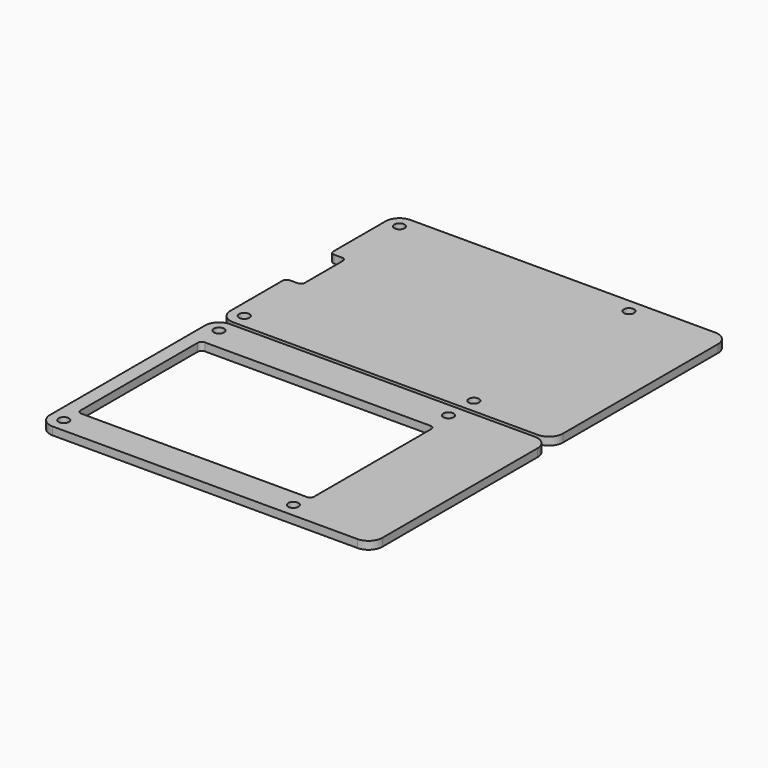
from build123d import *

# Parameters (mm, degrees)
SKETCH_R     = 1.3
PAD_DEPTH    = 2
SKETCH001_R  = 1.3
PAD001_DEPTH = 2


with BuildPart() as body:
    # Sketch → Pad (new body)
    with BuildSketch(Plane.XY):
        with BuildLine():
            Line((3.4953, 56), (80.5, 56))
            ThreePointArc((84, 52.5), (82.974874, 54.974874), (80.5, 56))
            Line((84, 52.5), (84, 3.5))
            ThreePointArc((80.5, 0), (82.974874, 1.025126), (84, 3.5))
            Line((80.5, 0), (3.5, 0))
            ThreePointArc((0, 3.5), (1.025126, 1.025126), (3.5, 0))
            Line((0, 3.5), (0, 20))
            ThreePointArc((1, 21), (0.292893, 20.707107), (0, 20))
            Line((3, 21), (1, 21))
            ThreePointArc((3, 21), (3.707107, 21.292893), (4, 22))
            Line((4, 34), (4, 22))
            ThreePointArc((4, 34), (3.707107, 34.707107), (3, 35))
            Line((1, 35), (3, 35))
            ThreePointArc((0, 36), (0.292893, 35.292893), (1, 35))
            Line((0, 36), (0, 52.318672))
            ThreePointArc((3.4953, 56), (0.957127, 54.909912), (0, 52.318672))
        make_face()
        with Locations((3.5, 52.5)):
            Circle(SKETCH_R, mode=Mode.SUBTRACT)
        with Locations((3.5, 3.5)):
            Circle(SKETCH_R, mode=Mode.SUBTRACT)
        with Locations((61.5, 3.5)):
            Circle(SKETCH_R, mode=Mode.SUBTRACT)
        with Locations((61.5, 52.5)):
            Circle(SKETCH_R, mode=Mode.SUBTRACT)
    extrude(amount=PAD_DEPTH)


with BuildPart() as body_1:
    # Body placement: moved
    add(body.part.moved(Location((0, 57, 0))))


with BuildPart() as body001:
    # Sketch001 → Pad001 (new body)
    with BuildSketch(Plane.XY):
        with BuildLine():
            Line((3.5, 56), (80.5, 56))
            ThreePointArc((84, 52.5), (82.974874, 54.974874), (80.5, 56))
            Line((84, 52.5), (84, 3.5))
            ThreePointArc((80.5, 0), (82.974874, 1.025126), (84, 3.5))
            Line((80.5, 0), (3.5, 0))
            ThreePointArc((0, 3.5), (1.025126, 1.025126), (3.5, 0))
            Line((0, 3.5), (0, 52.5))
            ThreePointArc((3.5, 56), (1.025126, 54.974874), (0, 52.5))
        make_face()
        with Locations((3.5, 52.5)):
            Circle(SKETCH001_R, mode=Mode.SUBTRACT)
        with Locations((3.5, 3.5)):
            Circle(SKETCH001_R, mode=Mode.SUBTRACT)
        with Locations((61.5, 3.5)):
            Circle(SKETCH001_R, mode=Mode.SUBTRACT)
        with Locations((61.5, 52.5)):
            Circle(SKETCH001_R, mode=Mode.SUBTRACT)
        with BuildLine():
            Line((4.5, 46.8), (61.5, 46.8))
            ThreePointArc((62.5, 45.8), (62.207107, 46.507107), (61.5, 46.8))
            Line((62.5, 45.8), (62.5, 8.8))
            ThreePointArc((61.5, 7.8), (62.207107, 8.092893), (62.5, 8.8))
            Line((61.5, 7.8), (4.5, 7.8))
            ThreePointArc((3.5, 8.8), (3.792893, 8.092893), (4.5, 7.8))
            Line((3.5, 8.8), (3.5, 45.8))
            ThreePointArc((4.5, 46.8), (3.792893, 46.507107), (3.5, 45.8))
        make_face(mode=Mode.SUBTRACT)
    extrude(amount=PAD001_DEPTH)


solid = Compound([body_1.part, body001.part])
